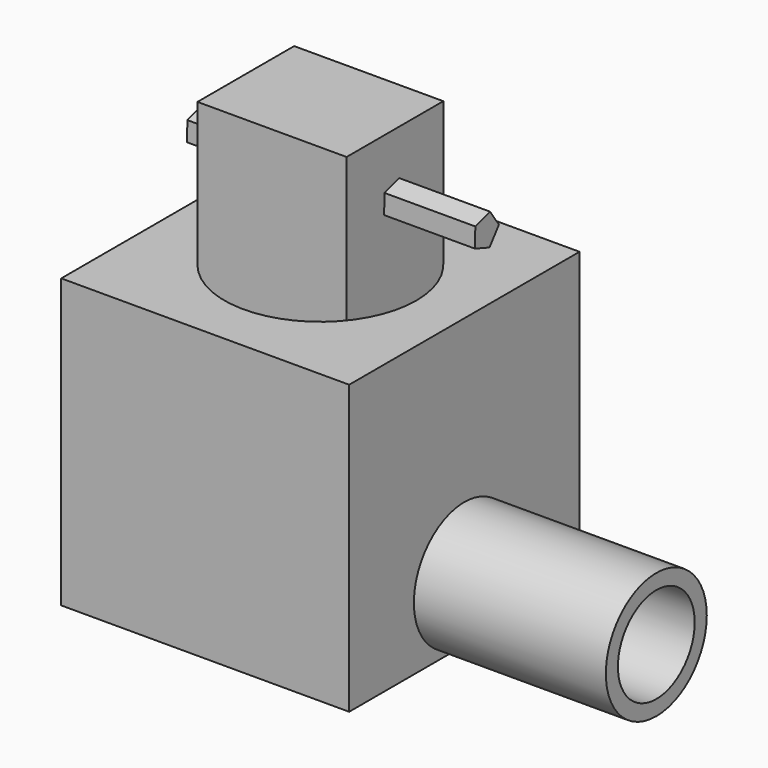
from build123d import *

# Parameters (mm, degrees)
F0_W      = 76.2
F0_H      = 76.2
F1_DEPTH  = 38.1
F2_R      = 25.4
F3_DEPTH  = 76.201
F4_W      = 39.467574
F4_H      = 31.9836
F5_DEPTH  = 38.1
F7_DEPTH  = 25.4
F9_DEPTH  = 12.7
F10_DEPTH = 50.8
F12_DEPTH = 50.8
F13_R     = 12.7
F14_DEPTH = 50.8


with BuildPart() as f1:
    # F0 (on Top) → F1 (new body, symmetric)
    with BuildSketch(Plane.XY):
        Rectangle(F0_W, F0_H)
    extrude(amount=F1_DEPTH, both=True)

    # F2 (on face) → F3 (cut, through all)
    with BuildSketch(Plane.XY.offset(38.1)):
        Circle(F2_R)
    extrude(amount=-F3_DEPTH, mode=Mode.SUBTRACT)

    # F11 (on face) → F12 (join)
    with BuildSketch(Plane.YZ.offset(38.1)):
        with BuildLine():
            ThreePointArc((0, -38.1), (11.803963, -33.210638), (16.693325, -21.406675))
            ThreePointArc((16.693325, -21.406675), (-11.803963, -9.602711), (0, -38.1))
        make_face()
    extrude(amount=F12_DEPTH)

    # F13 (on face) → F14 (cut)
    with BuildSketch(Plane.YZ.offset(88.9)):
        with Locations((0, -21.406675)):
            Circle(F13_R)
    extrude(amount=-F14_DEPTH, mode=Mode.SUBTRACT)


with BuildPart() as f5:
    # F4 (on face) → F5 (new body, symmetric)
    with BuildSketch(Plane.XY.offset(38.1)):
        Rectangle(F4_W, F4_H)
    extrude(amount=F5_DEPTH, both=True)

    # F6 (on face) → F7 (cut)
    with BuildSketch(Plane(origin=(0, 15.9918, 0), x_dir=(-1, 0, 0), z_dir=(0, 1, 0))):
        Polygon((-6.347183, 55.205135), (3.080898, 49.169198), (11.734853, 56.270629), (7.65521, 66.695492), (-3.520103, 66.03698), align=None)
    extrude(amount=-F7_DEPTH, mode=Mode.SUBTRACT)

    # F8 (on face) → F9 (join, symmetric)
    with BuildSketch(Plane(origin=(-19.733787, 0, 0), x_dir=(0, -1, 0), z_dir=(-1, 0, 0))):
        Polygon((-1.451262, 64.183876), (-4.347805, 59.970606), (-1.235829, 55.913858), (3.584021, 57.619919), (3.450876, 62.731071), align=None)
    extrude(amount=F9_DEPTH, both=True)

    # F9_face (on face) → F10 (join)
    with BuildSketch(Plane(origin=(-7.033787, 0, 60.083866), x_dir=(0, -1, 0), z_dir=(1, 0, 0))):
        Polygon((3.450876, -2.647205), (3.584021, 2.463947), (-1.235829, 4.170008), (-4.347805, 0.11326), (-1.451262, -4.100009), align=None)
    extrude(amount=F10_DEPTH)


solid = Compound([f1.part, f5.part])
